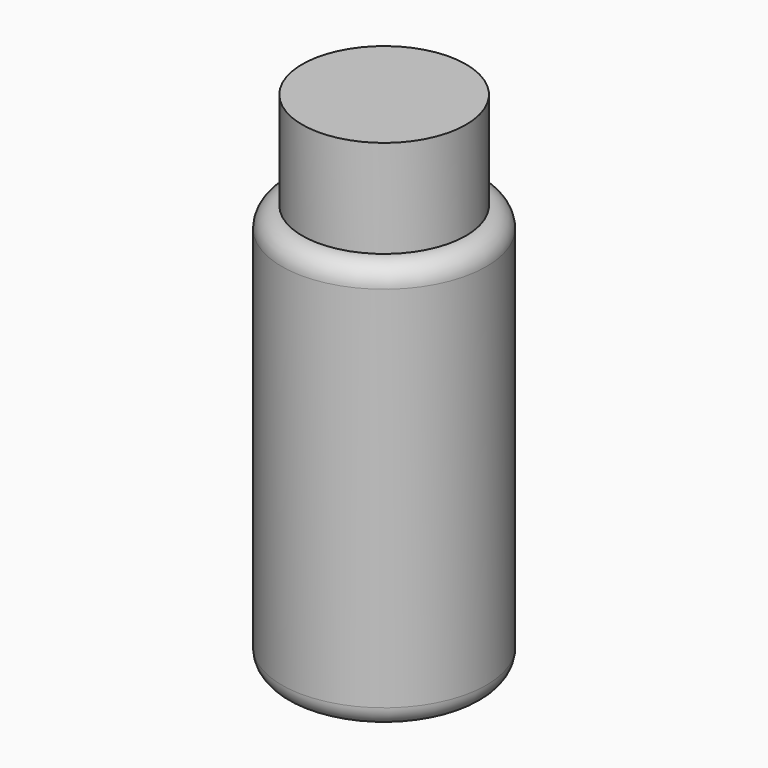
from build123d import *

# Parameters (mm, degrees)
F0_R      = 50.8
F1_DEPTH  = 203.2
F2_R      = 10.16
F1_FACE_R = 40.64
F3_DEPTH  = 48.514


with BuildPart() as f1:
    # F0 (on Top) → F1 (new body)
    with BuildSketch(Plane.XY):
        Circle(F0_R)
    extrude(amount=F1_DEPTH)

    # F2
    f2_edges = [f1.edges().sort_by_distance(p)[0] for p in [
        (-50.8, 0, 0),
        (50.8, 0, 101.6),
        (-50.8, 0, 203.2),
    ]]
    fillet(f2_edges, radius=F2_R)

    # F1_face (on face) → F3 (join)
    with BuildSketch(Plane.XY.offset(203.2)):
        Circle(F1_FACE_R)
    extrude(amount=F3_DEPTH)


solid = f1.part
